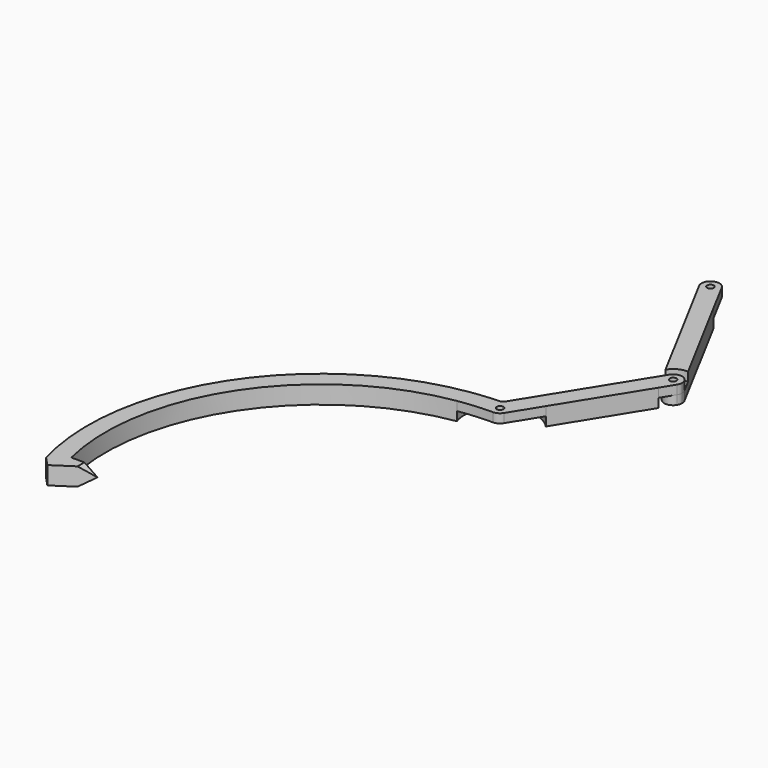
from build123d import *

# Parameters (mm, degrees)
F0_R     = 4.7625
F1_DEPTH = 12.7
F2_DEPTH = 12.7
F3_DEPTH = 12.7
F4_DEPTH = 12.7
F6_DEPTH = 30.669547


with BuildPart() as f1:
    # F0 (on Top) → F1 (new body)
    with BuildSketch(Plane.XY):
        with BuildLine():
            ThreePointArc((15.109319, 366.001015), (26.754789, 360.683576), (36.701107, 352.623621))
            Line((36.701107, 352.623621), (106.229886, 464.846572))
            ThreePointArc((106.229886, 464.846572), (93.641761, 468.642518), (84.638098, 478.223966))
            Line((84.638098, 478.223966), (15.109319, 366.001015))
        make_face()
        with BuildLine():
            ThreePointArc((84.638098, 478.223966), (93.641761, 468.642518), (106.229886, 464.846572))
            Line((106.229886, 464.846572), (117.815049, 483.545609))
            ThreePointArc((117.815049, 483.545609), (106.618838, 477.540617), (95.823255, 484.239157))
            Line((95.823255, 484.239157), (92.365531, 490.696432))
            Line((92.365531, 490.696432), (84.638098, 478.223966))
        make_face()
        with BuildLine():
            ThreePointArc((95.823255, 484.239157), (106.618838, 477.540617), (117.815049, 483.545609))
            ThreePointArc((117.815049, 483.545609), (119.233856, 486.757084), (119.719155, 490.234306))
            ThreePointArc((119.719155, 490.234306), (119.337392, 493.32478), (118.215055, 496.229455))
            ThreePointArc((118.215055, 496.229455), (107.419472, 502.927995), (96.223261, 496.923003))
            ThreePointArc((96.223261, 496.923003), (94.325466, 490.634623), (95.823255, 484.239157))
        make_face()
        with Locations((107.019155, 490.234306)):
            Circle(F0_R, mode=Mode.SUBTRACT)
        with BuildLine():
            Line((92.365531, 490.696432), (95.823255, 484.239157))
            ThreePointArc((95.823255, 484.239157), (94.325466, 490.634623), (96.223261, 496.923003))
            Line((96.223261, 496.923003), (92.365531, 490.696432))
        make_face()
        with BuildLine():
            ThreePointArc((-50.016076, 326.39), (-50.647309, 313.564257), (-48.042272, 300.99))
            ThreePointArc((-48.042272, 300.99), (-24.096556, 303.846007), (0, 304.8))
            ThreePointArc((0, 304.8), (6.178331, 306.404135), (10.795894, 310.811303))
            Line((10.795894, 310.811303), (36.701107, 352.623621))
            ThreePointArc((36.701107, 352.623621), (26.754789, 360.683576), (15.109319, 366.001015))
            Line((15.109319, 366.001015), (-5.315021, 333.035102))
            ThreePointArc((-5.315021, 333.035102), (-7.535883, 330.881394), (-10.510837, 330.032669))
            ThreePointArc((-10.510837, 330.032669), (-30.318213, 328.805179), (-50.016076, 326.39))
        make_face()
        with Locations((0, 317.5)):
            Circle(F0_R, mode=Mode.SUBTRACT)
        with BuildLine():
            Line((-259.19804, -71.48465), (-296.29881, -71.48465))
            ThreePointArc((-296.29881, -71.48465), (-253.627752, 169.044383), (-48.042272, 300.99))
            ThreePointArc((-48.042272, 300.99), (-50.647309, 313.564257), (-50.016076, 326.39))
            ThreePointArc((-50.016076, 326.39), (-277.494981, 178.965292), (-317.959825, -89.070699))
            Line((-317.959825, -89.070699), (-305.742532, -102.153197))
            Line((-305.742532, -102.153197), (-259.19804, -71.48465))
        make_face()
    extrude(amount=F1_DEPTH)

    # F0 (on Top) → F2 (join)
    with BuildSketch(Plane.XY):
        with BuildLine():
            ThreePointArc((15.109319, 366.001015), (26.754789, 360.683576), (36.701107, 352.623621))
            Line((36.701107, 352.623621), (106.229886, 464.846572))
            ThreePointArc((106.229886, 464.846572), (93.641761, 468.642518), (84.638098, 478.223966))
            Line((84.638098, 478.223966), (15.109319, 366.001015))
        make_face()
        with BuildLine():
            Line((-259.19804, -71.48465), (-296.29881, -71.48465))
            ThreePointArc((-296.29881, -71.48465), (-253.627752, 169.044383), (-48.042272, 300.99))
            ThreePointArc((-48.042272, 300.99), (-50.647309, 313.564257), (-50.016076, 326.39))
            ThreePointArc((-50.016076, 326.39), (-277.494981, 178.965292), (-317.959825, -89.070699))
            Line((-317.959825, -89.070699), (-305.742532, -102.153197))
            Line((-305.742532, -102.153197), (-259.19804, -71.48465))
        make_face()
    extrude(amount=-F2_DEPTH)

    # F5 (on face) → F6 (cut, through all)
    with BuildSketch(Plane(origin=(0, -71.48465, 0), x_dir=(-1, 0, 0), z_dir=(0, 1, 0))):
        Polygon((259.19804, 12.7), (259.19804, 0), (277.748425, 12.7), align=None)
        Polygon((277.748425, -12.7), (259.19804, 0), (259.19804, -12.7), align=None)
    extrude(amount=-F6_DEPTH, mode=Mode.SUBTRACT)


with BuildPart() as f3:
    # F0 (on Top) → F3 (new body)
    with BuildSketch(Plane.XY):
        with BuildLine():
            Line((12.023213, 640.735163), (85.439352, 503.631025))
            ThreePointArc((85.439352, 503.631025), (95.028856, 512.626107), (107.831152, 515.621324))
            Line((107.831152, 515.621324), (34.415014, 652.725462))
            ThreePointArc((34.415014, 652.725462), (23.980597, 645.308247), (12.023213, 640.735163))
        make_face()
        with BuildLine():
            Line((85.439352, 503.631025), (92.365531, 490.696432))
            Line((92.365531, 490.696432), (96.223261, 496.923003))
            ThreePointArc((96.223261, 496.923003), (107.419472, 502.927995), (118.215055, 496.229455))
            Line((118.215055, 496.229455), (107.831152, 515.621324))
            ThreePointArc((107.831152, 515.621324), (95.028856, 512.626107), (85.439352, 503.631025))
        make_face()
        with BuildLine():
            Line((92.365531, 490.696432), (95.823255, 484.239157))
            ThreePointArc((95.823255, 484.239157), (94.325466, 490.634623), (96.223261, 496.923003))
            Line((96.223261, 496.923003), (92.365531, 490.696432))
        make_face()
        with BuildLine():
            ThreePointArc((95.823255, 484.239157), (106.618838, 477.540617), (117.815049, 483.545609))
            ThreePointArc((117.815049, 483.545609), (119.233856, 486.757084), (119.719155, 490.234306))
            ThreePointArc((119.719155, 490.234306), (119.337392, 493.32478), (118.215055, 496.229455))
            ThreePointArc((118.215055, 496.229455), (107.419472, 502.927995), (96.223261, 496.923003))
            ThreePointArc((96.223261, 496.923003), (94.325466, 490.634623), (95.823255, 484.239157))
        make_face()
        with Locations((107.019155, 490.234306)):
            Circle(F0_R, mode=Mode.SUBTRACT)
    extrude(amount=-F3_DEPTH)

    # F0 (on Top) → F4 (join)
    with BuildSketch(Plane.XY):
        with BuildLine():
            Line((12.023213, 640.735163), (85.439352, 503.631025))
            ThreePointArc((85.439352, 503.631025), (95.028856, 512.626107), (107.831152, 515.621324))
            Line((107.831152, 515.621324), (34.415014, 652.725462))
            ThreePointArc((34.415014, 652.725462), (23.980597, 645.308247), (12.023213, 640.735163))
        make_face()
        with BuildLine():
            Line((-11.1959, 684.096699), (12.023213, 640.735163))
            ThreePointArc((12.023213, 640.735163), (23.980597, 645.308247), (34.415014, 652.725462))
            Line((34.415014, 652.725462), (11.1959, 696.086998))
            ThreePointArc((11.1959, 696.086998), (12.318237, 693.182323), (12.7, 690.091848))
            ThreePointArc((12.7, 690.091848), (3.090474, 677.773611), (-11.1959, 684.096699))
        make_face()
        with BuildLine():
            ThreePointArc((11.1959, 696.086998), (-5.995149, 701.287749), (-11.1959, 684.096699))
            ThreePointArc((-11.1959, 684.096699), (3.090474, 677.773611), (12.7, 690.091848))
            ThreePointArc((12.7, 690.091848), (12.318237, 693.182323), (11.1959, 696.086998))
        make_face()
        with Locations((0, 690.091848)):
            Circle(F0_R, mode=Mode.SUBTRACT)
    extrude(amount=F4_DEPTH)


solid = Compound([f1.part, f3.part])
